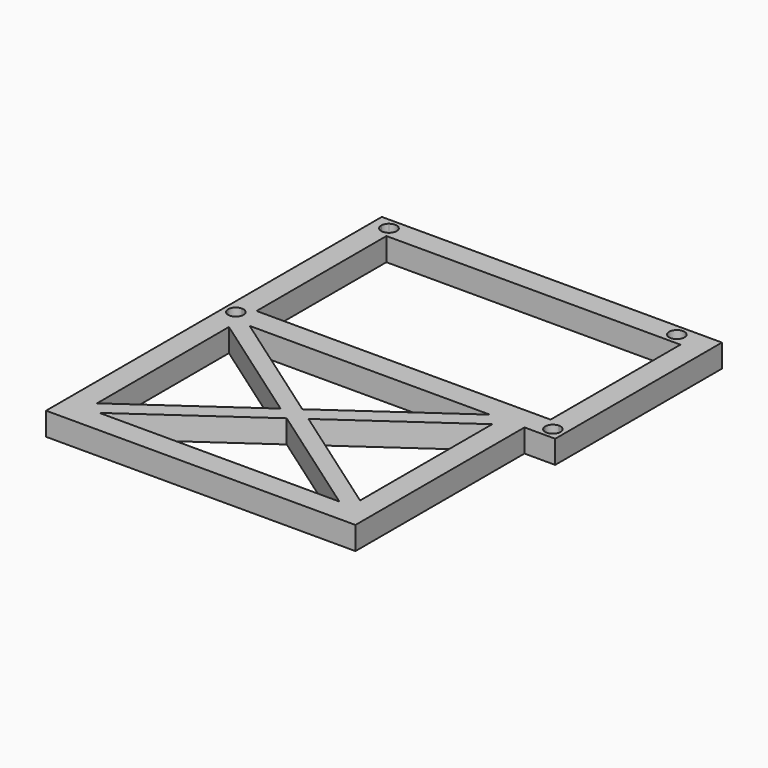
from build123d import *

# Parameters (mm, degrees)
F0_W     = 76.55
F0_H     = 3
F0_W_2   = 3
F0_H_2   = 42.26
F1_DEPTH = 6


with BuildPart() as f1:
    # F0 (on Top) → F1 (new body)
    with BuildSketch(Plane.XY):
        Polygon((6, -3), (3, -3), (3.0045710415, -5.9999965176), (33.6586109907, -27.5131053158), (37.2928210185, -24.9598743989), align=None)
        Polygon((40.9299577603, -27.5122510599), (37.2928210185, -24.9598743989), (33.6586109907, -27.5131053158), (37.2956208473, -30.0655711205), align=None)
        Polygon((71.55, -3), (68.55, -3), (37.2928210185, -24.9598743989), (40.9299577603, -27.5122510599), (71.55, -6), align=None)
        Polygon((71.55, -49), (40.9299577603, -27.5122510599), (37.2956208473, -30.0655711205), (68.55, -52), (71.55, -52), align=None)
        Polygon((3.0746604316, -49), (3.0746604316, -52), (6.0746604316, -52), (37.2956208473, -30.0655711205), (33.6586109907, -27.5131053158), align=None)
        Polygon((3, -3), (0, -3), (-3, -3), (-3, -52), (3.0746604316, -52), (3.0045710415, -5.9999965176), align=None)
        with BuildLine():
            Line((3, 0), (2, 0))
            ThreePointArc((2, 0), (1.4142135624, -1.4142135624), (0, -2))
            Line((0, -2), (0, -3))
            Line((0, -3), (3, -3))
            Line((3, -3), (6, -3))
            Line((6, -3), (68.55, -3))
            Line((68.55, -3), (71.55, -3))
            Line((71.55, -3), (77.55, -3))
            Line((77.55, -3), (82.55, -3))
            Line((82.55, -3), (82.55, -2))
            ThreePointArc((82.55, -2), (81.1357864376, -1.4142135624), (80.55, 0))
            Line((80.55, 0), (79.55, 0))
            Line((79.55, 0), (3, 0))
        make_face()
        with BuildLine():
            Line((0, -3), (0, -2))
            ThreePointArc((0, -2), (-1.4142135624, -1.4142135624), (-2, 0))
            Line((-2, 0), (-3, 0))
            Line((-3, 0), (-3, -3))
            Line((-3, -3), (0, -3))
        make_face()
        Polygon((3.0746604316, -52), (-3, -52), (-3, -58), (3, -58), (71.55, -58), (71.55, -52), (68.55, -52), (6.0746604316, -52), align=None)
        Polygon((77.55, -3), (71.55, -3), (71.55, -6), (71.55, -49), (71.55, -52), (71.55, -58), (77.55, -58), align=None)
        with BuildLine():
            Line((82.55, 3), (82.55, 2))
            ThreePointArc((82.55, 2), (83.9642135624, 1.4142135624), (84.55, 0))
            Line((84.55, 0), (85.55, 0))
            Line((85.55, 0), (85.55, 51.26))
            Line((85.55, 51.26), (0, 51.26))
            Line((0, 51.26), (0, 49.8050242717))
            ThreePointArc((0, 49.8050242717), (2.1244003745, 50.068314132), (3.27, 48.26))
            Line((3.27, 48.26), (74.2, 48.26))
            ThreePointArc((74.2, 48.26), (76.2, 50.26), (78.2, 48.26))
            Line((78.2, 48.26), (82.55, 48.26))
            Line((82.55, 48.26), (82.55, 45.26))
            Line((82.55, 45.26), (82.55, 3))
        make_face()
        with BuildLine():
            ThreePointArc((84.55, 0), (83.9642135624, -1.4142135624), (82.55, -2))
            Line((82.55, -2), (82.55, -3))
            Line((82.55, -3), (83.308570087, -3))
            Line((83.308570087, -3), (85.55, -3))
            Line((85.55, -3), (85.55, 0))
            Line((85.55, 0), (84.55, 0))
        make_face()
        with BuildLine():
            Line((79.55, 3), (79.55, 0))
            Line((79.55, 0), (80.55, 0))
            ThreePointArc((80.55, 0), (81.1357864376, 1.4142135624), (82.55, 2))
            Line((82.55, 2), (82.55, 3))
            Line((82.55, 3), (79.55, 3))
        make_face()
        with Locations((41.275, 1.5)):
            Rectangle(F0_W, F0_H)
        with Locations((81.05, 24.13)):
            Rectangle(F0_W_2, F0_H_2)
        with BuildLine():
            Line((0, 46.7149757283), (0, 45.26))
            Line((0, 45.26), (3, 45.26))
            Line((3, 45.26), (79.55, 45.26))
            Line((79.55, 45.26), (82.55, 45.26))
            Line((82.55, 45.26), (82.55, 48.26))
            Line((82.55, 48.26), (78.2, 48.26))
            ThreePointArc((78.2, 48.26), (76.2, 46.26), (74.2, 48.26))
            Line((74.2, 48.26), (3.27, 48.26))
            ThreePointArc((3.27, 48.26), (2.1244003745, 46.451685868), (0, 46.7149757283))
        make_face()
        with Locations((1.5, 24.13)):
            Rectangle(F0_W_2, F0_H_2)
        with BuildLine():
            ThreePointArc((-2, 0), (-1.4142135624, 1.4142135624), (0, 2))
            Line((0, 2), (0, 3))
            Line((0, 3), (0, 45.26))
            Line((0, 45.26), (0, 46.7149757283))
            ThreePointArc((0, 46.7149757283), (-0.538314132, 47.4055996255), (-0.73, 48.26))
            Line((-0.73, 48.26), (-3, 48.26))
            Line((-3, 48.26), (-3, 0))
            Line((-3, 0), (-2, 0))
        make_face()
        with BuildLine():
            ThreePointArc((0, 2), (1.4142135624, 1.4142135624), (2, 0))
            Line((2, 0), (3, 0))
            Line((3, 0), (3, 3))
            Line((3, 3), (0, 3))
            Line((0, 3), (0, 2))
        make_face()
        with BuildLine():
            Line((-3, 51.26), (-3, 48.26))
            Line((-3, 48.26), (-0.73, 48.26))
            ThreePointArc((-0.73, 48.26), (-0.538314132, 49.1144003745), (0, 49.8050242717))
            Line((0, 49.8050242717), (0, 51.26))
            Line((0, 51.26), (-3, 51.26))
        make_face()
    extrude(amount=F1_DEPTH)


solid = f1.part
